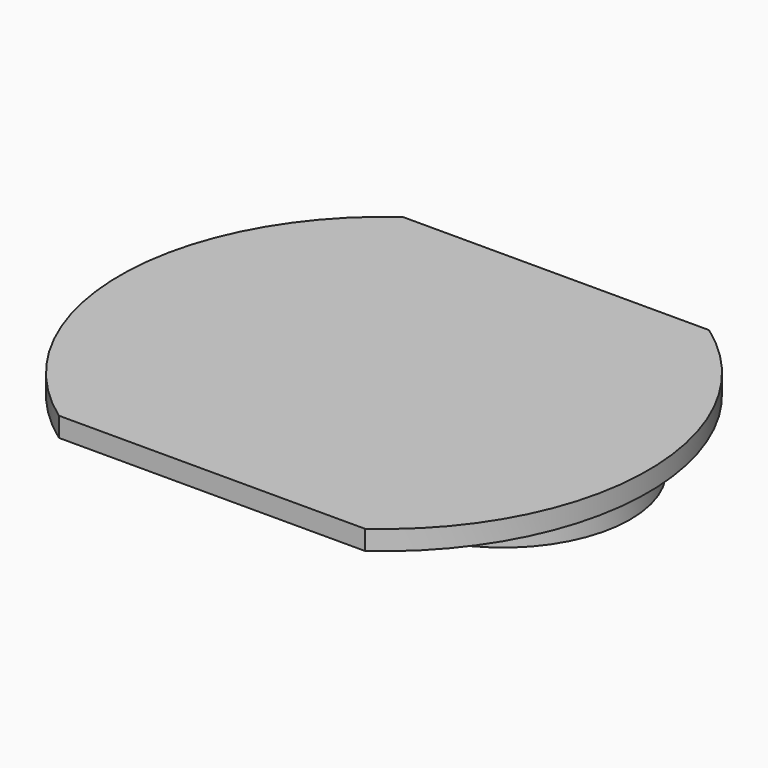
from build123d import *

# Parameters (mm, degrees)
F1_DEPTH = 10
F3_DEPTH = 4
F5_DEPTH = 50
F6_R     = 65
F7_DEPTH = 15
F8_DEPTH = 50
F9_DEPTH = 4


with BuildPart() as f1:
    # F0 (on Top) → F1 (new body)
    with BuildSketch(Plane.XY):
        with BuildLine():
            ThreePointArc((-78.2623792125, 110), (-135, 0), (-78.2623792125, -110))
            Line((-78.2623792125, -110), (78.2623792125, -110))
            ThreePointArc((78.2623792125, -110), (135, 0), (78.2623792125, 110))
            Line((78.2623792125, 110), (-78.2623792125, 110))
        make_face()
    extrude(amount=F1_DEPTH)

    # F2 (on face) → F3 (cut)
    with BuildSketch(Plane.XY.offset(10)):
        with BuildLine():
            Line((-61.4491659829, 110), (-69.2820323028, 110))
            ThreePointArc((-69.2820323028, 110), (-130, 0), (-69.2820323028, -110))
            Line((-69.2820323028, -110), (-61.4491659829, -110))
            ThreePointArc((-61.4491659829, -110), (-126, 0), (-61.4491659829, 110))
        make_face()
        with BuildLine():
            Line((69.2820323028, 110), (61.4491659829, 110))
            ThreePointArc((61.4491659829, 110), (126, 0), (61.4491659829, -110))
            Line((61.4491659829, -110), (69.2820323028, -110))
            ThreePointArc((69.2820323028, -110), (130, 0), (69.2820323028, 110))
        make_face()
    extrude(amount=-F3_DEPTH, mode=Mode.SUBTRACT)

    # F5 (add): faces of the model
    f5_faces = [f1.faces().sort_by_distance(p)[0] for p in [
        (-65.3655991429, 109.7695673269, 6),
        (128.3043267313, 0, 6),
    ]]
    extrude(f5_faces, amount=F5_DEPTH)

    # F6 (on face) → F7 (join)
    with BuildSketch(Plane(origin=(0, 0, 0), x_dir=(1, 0, 0), z_dir=(0, 0, -1))):
        with Locations((60.9998414516, 0)):
            Circle(F6_R)
    extrude(amount=F7_DEPTH)

    # F8 (cut): faces of the model
    f8_faces = [f1.faces().sort_by_distance(p)[0] for p in [
        (-65.3655991429, 109.7695673269, 56),
        (128.3043267313, 0, 56),
    ]]
    extrude(f8_faces, amount=-F8_DEPTH, mode=Mode.SUBTRACT)

    # F9 (add): faces of the model
    f9_faces = [f1.faces().sort_by_distance(p)[0] for p in [
        (-65.3655991429, 109.7695673269, 6),
        (128.3043267313, 0, 6),
    ]]
    extrude(f9_faces, amount=F9_DEPTH)


solid = f1.part
